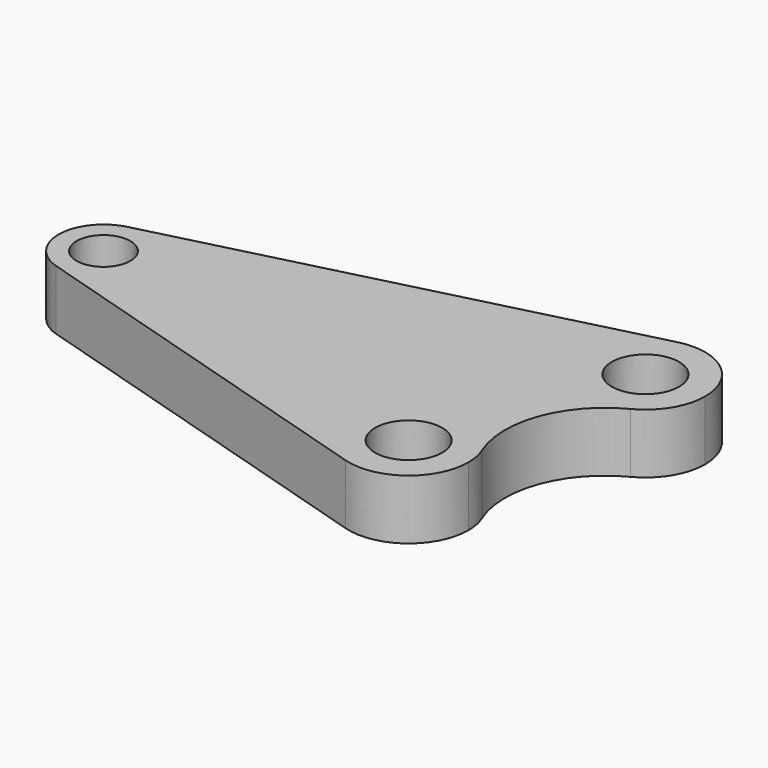
from build123d import *

# Parameters (mm, degrees)
F0_R     = 11.43
F0_R_2   = 14.2875
F1_DEPTH = 25.4


with BuildPart() as f1:
    # F0 (on Top) → F1 (new body)
    with BuildSketch(Plane.XY):
        with BuildLine():
            ThreePointArc((-223.765199, 69.128216), (-207.381781, 65.700199), (-200.028299, 50.663778))
            ThreePointArc((-200.028299, 50.663778), (-207.723462, 35.367694), (-224.592098, 32.429181))
            Line((-224.592098, 32.429181), (-62.436875, -16.603506))
            ThreePointArc((-62.436875, -16.603506), (-73.880053, 24.794703), (-31.581428, 17.33921))
            ThreePointArc((-31.581428, 17.33921), (-32.128705, 48.14231), (-11.712275, 71.213935))
            ThreePointArc((-11.712275, 71.213935), (-47.089563, 84.80489), (-29.584343, 118.417891))
            Line((-29.584343, 118.417891), (-223.765199, 69.128216))
        make_face()
        with BuildLine():
            ThreePointArc((-224.592098, 32.429181), (-207.723462, 35.367694), (-200.028299, 50.663778))
            ThreePointArc((-200.028299, 50.663778), (-207.381781, 65.700199), (-223.765199, 69.128216))
            ThreePointArc((-223.765199, 69.128216), (-238.123465, 51.092902), (-224.592098, 32.429181))
        make_face()
        with Locations((-219.078299, 50.663778)):
            Circle(F0_R, mode=Mode.SUBTRACT)
        with BuildLine():
            ThreePointArc((2.064857, 93.79864), (-7.739786, 113.847202), (-29.584343, 118.417891))
            ThreePointArc((-29.584343, 118.417891), (-47.089563, 84.80489), (-11.712275, 71.213935))
            ThreePointArc((-11.712275, 71.213935), (-1.651268, 80.571034), (2.064857, 93.79864))
        make_face()
        with Locations((-23.335143, 93.79864)):
            Circle(F0_R_2, mode=Mode.SUBTRACT)
        with BuildLine():
            ThreePointArc((-31.581428, 17.33921), (-73.880053, 24.794703), (-62.436875, -16.603506))
            ThreePointArc((-62.436875, -16.603506), (-39.945361, -12.685489), (-29.685143, 7.70929))
            ThreePointArc((-29.685143, 7.70929), (-30.163723, 12.616714), (-31.581428, 17.33921))
        make_face()
        with Locations((-55.085143, 7.70929)):
            Circle(F0_R_2, mode=Mode.SUBTRACT)
    extrude(amount=F1_DEPTH)


solid = f1.part
